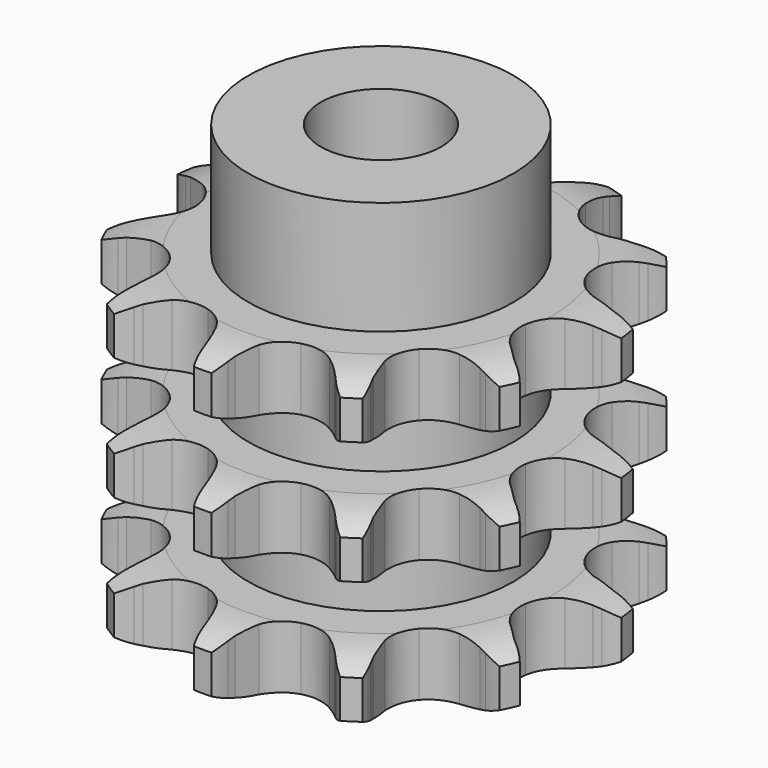
from build123d import *

# Parameters (mm, degrees)
PAD_DEPTH         = 25.6
SKETCH001_R       = 11
PAD001_DEPTH      = 35
SKETCH002_R       = 5
POCKET_DEPTH      = 0.001
POCKET_DEPTH_BACK = 35.001


with BuildPart() as part:
    # Sprocket → Pad (new body)
    with BuildSketch(Plane.XY):
        with BuildLine():
            ThreePointArc((-5.534693, 18.849434), (-4.531257, 17.974923), (-3.774048, 16.880261))
            Line((-3.774048, 16.880261), (-3.501626, 16.357957))
            ThreePointArc((-3.501626, 16.357957), (-3.022974, 15.55414), (-2.456995, 14.809227))
            ThreePointArc((-2.456995, 14.809227), (-1.353005, 13.972494), (0, 13.675355))
            ThreePointArc((0, 13.675355), (1.353005, 13.972494), (2.456995, 14.809227))
            ThreePointArc((2.456995, 14.809227), (3.022974, 15.55414), (3.501626, 16.357957))
            Line((3.501626, 16.357957), (3.774048, 16.880261))
            ThreePointArc((3.774048, 16.880261), (4.531257, 17.974923), (5.534693, 18.849434))
            ThreePointArc((5.534693, 18.849434), (5.906041, 17.57125), (5.951227, 16.240983))
            Line((5.951227, 16.240983), (5.898024, 15.654311))
            ThreePointArc((5.898024, 15.654311), (5.866116, 14.719319), (5.939517, 13.786666))
            ThreePointArc((5.939517, 13.786666), (6.415881, 12.4859), (7.393455, 11.50444))
            ThreePointArc((7.393455, 11.50444), (8.692321, 11.022921), (10.073428, 11.129963))
            Line((10.073428, 11.129963), (11.789535, 11.868067))
            ThreePointArc((11.789535, 11.868067), (12.042722, 12.018656), (12.301089, 12.160175))
            ThreePointArc((12.301089, 12.160175), (13.529913, 12.671685), (14.846854, 12.864872))
            ThreePointArc((14.846854, 12.864872), (14.468213, 11.58883), (13.787029, 10.445308))
            Line((13.787029, 10.445308), (13.425093, 9.980532))
            ThreePointArc((13.425093, 9.980532), (12.892755, 9.211217), (12.450274, 8.386936))
            ThreePointArc((12.450274, 8.386936), (12.147769, 7.035121), (12.43954, 5.680948))
            ThreePointArc((12.43954, 5.680948), (13.271887, 4.573647), (14.491619, 3.917014))
            Line((14.491619, 3.917014), (16.334349, 3.610149))
            ThreePointArc((16.334349, 3.610149), (16.628758, 3.599949), (16.922621, 3.579319))
            ThreePointArc((16.922621, 3.579319), (18.232918, 3.345276), (19.445243, 2.795804))
            ThreePointArc((19.445243, 2.795804), (18.436829, 1.927037), (17.245547, 1.333322))
            Line((17.245547, 1.333322), (16.68979, 1.138005))
            ThreePointArc((16.68979, 1.138005), (15.826036, 0.77862), (15.008157, 0.324413))
            ThreePointArc((15.008157, 0.324413), (14.022827, -0.64926), (13.536159, -1.946206))
            ThreePointArc((13.536159, -1.946206), (13.637722, -3.327727), (14.308823, -4.539559))
            Line((14.308823, -4.539559), (15.693123, -5.793965))
            ThreePointArc((15.693123, -5.793965), (15.935281, -5.961715), (16.171341, -6.137945))
            ThreePointArc((16.171341, -6.137945), (17.147099, -7.043234), (17.869905, -8.160912))
            ThreePointArc((17.869905, -8.160912), (16.551883, -8.346575), (15.228725, -8.201985))
            Line((15.228725, -8.201985), (14.655596, -8.065831))
            ThreePointArc((14.655596, -8.065831), (13.734662, -7.901184), (12.801056, -7.841108))
            ThreePointArc((12.801056, -7.841108), (11.445737, -8.127505), (10.335143, -8.955453))
            ThreePointArc((10.335143, -8.955453), (9.673677, -10.172571), (9.583077, -11.554854))
            Line((9.583077, -11.554854), (10.069441, -13.358536))
            ThreePointArc((10.069441, -13.358536), (10.182465, -13.630578), (10.285774, -13.906455))
            ThreePointArc((10.285774, -13.906455), (10.617198, -15.195567), (10.620998, -16.526596))
            ThreePointArc((10.620998, -16.526596), (9.411831, -15.97021), (8.376891, -15.13322))
            Line((8.376891, -15.13322), (7.968355, -14.708822))
            ThreePointArc((7.968355, -14.708822), (7.28263, -14.072418), (6.52971, -13.517133))
            ThreePointArc((6.52971, -13.517133), (5.234705, -13.025325), (3.852793, -13.121407))
            ThreePointArc((3.852793, -13.121407), (2.638308, -13.787696), (1.814772, -14.901564))
            Line((1.814772, -14.901564), (1.248783, -16.681867))
            ThreePointArc((1.248783, -16.681867), (1.196788, -16.971828), (1.134547, -17.259764))
            ThreePointArc((1.134547, -17.259764), (0.716411, -18.523415), (0, -19.645203))
            ThreePointArc((0, -19.645203), (-0.716411, -18.523415), (-1.134547, -17.259764))
            Line((-1.134547, -17.259764), (-1.248783, -16.681867))
            ThreePointArc((-1.248783, -16.681867), (-1.481585, -15.775758), (-1.814772, -14.901564))
            ThreePointArc((-1.814772, -14.901564), (-2.638308, -13.787696), (-3.852793, -13.121407))
            ThreePointArc((-3.852793, -13.121407), (-5.234705, -13.025325), (-6.52971, -13.517133))
            Line((-6.52971, -13.517133), (-7.968355, -14.708822))
            ThreePointArc((-7.968355, -14.708822), (-8.168861, -14.924643), (-8.376891, -15.13322))
            ThreePointArc((-8.376891, -15.13322), (-9.411831, -15.97021), (-10.620998, -16.526596))
            ThreePointArc((-10.620998, -16.526596), (-10.617198, -15.195567), (-10.285774, -13.906455))
            Line((-10.285774, -13.906455), (-10.069441, -13.358536))
            ThreePointArc((-10.069441, -13.358536), (-9.775408, -12.470407), (-9.583077, -11.554854))
            ThreePointArc((-9.583077, -11.554854), (-9.673677, -10.172571), (-10.335143, -8.955453))
            ThreePointArc((-10.335143, -8.955453), (-11.445737, -8.127505), (-12.801056, -7.841108))
            Line((-12.801056, -7.841108), (-14.655596, -8.065831))
            ThreePointArc((-14.655596, -8.065831), (-14.940954, -8.138989), (-15.228725, -8.201985))
            ThreePointArc((-15.228725, -8.201985), (-16.551883, -8.346575), (-17.869905, -8.160912))
            ThreePointArc((-17.869905, -8.160912), (-17.147099, -7.043234), (-16.171341, -6.137945))
            Line((-16.171341, -6.137945), (-15.693123, -5.793965))
            ThreePointArc((-15.693123, -5.793965), (-14.965607, -5.205789), (-14.308823, -4.539559))
            ThreePointArc((-14.308823, -4.539559), (-13.637722, -3.327727), (-13.536159, -1.946206))
            ThreePointArc((-13.536159, -1.946206), (-14.022827, -0.64926), (-15.008157, 0.324413))
            Line((-15.008157, 0.324413), (-16.68979, 1.138005))
            ThreePointArc((-16.68979, 1.138005), (-16.9694, 1.230736), (-17.245547, 1.333322))
            ThreePointArc((-17.245547, 1.333322), (-18.436829, 1.927037), (-19.445243, 2.795804))
            ThreePointArc((-19.445243, 2.795804), (-18.232918, 3.345276), (-16.922621, 3.579319))
            Line((-16.922621, 3.579319), (-16.334349, 3.610149))
            ThreePointArc((-16.334349, 3.610149), (-15.404332, 3.711629), (-14.491619, 3.917014))
            ThreePointArc((-14.491619, 3.917014), (-13.271887, 4.573647), (-12.43954, 5.680948))
            ThreePointArc((-12.43954, 5.680948), (-12.147769, 7.035121), (-12.450274, 8.386936))
            Line((-12.450274, 8.386936), (-13.425093, 9.980532))
            ThreePointArc((-13.425093, 9.980532), (-13.610181, 10.209712), (-13.787029, 10.445308))
            ThreePointArc((-13.787029, 10.445308), (-14.468213, 11.58883), (-14.846854, 12.864872))
            ThreePointArc((-14.846854, 12.864872), (-13.529913, 12.671685), (-12.301089, 12.160175))
            Line((-12.301089, 12.160175), (-11.789535, 11.868067))
            ThreePointArc((-11.789535, 11.868067), (-10.952291, 11.450632), (-10.073428, 11.129963))
            ThreePointArc((-10.073428, 11.129963), (-8.692321, 11.022921), (-7.393455, 11.50444))
            ThreePointArc((-7.393455, 11.50444), (-6.415881, 12.4859), (-5.939517, 13.786666))
            Line((-5.939517, 13.786666), (-5.898024, 15.654311))
            ThreePointArc((-5.898024, 15.654311), (-5.929826, 15.947175), (-5.951227, 16.240983))
            ThreePointArc((-5.951227, 16.240983), (-5.906041, 17.57125), (-5.534693, 18.849434))
        make_face()
    extrude(amount=PAD_DEPTH)

    # Sketch → Groove (revolve, cut)
    with BuildSketch(Plane.XZ):
        with BuildLine():
            ThreePointArc((14.141101, 0), (16.377169, 0.253206), (18.5, 1))
            Line((18.5, 1), (18.5, 4.2))
            ThreePointArc((18.5, 4.2), (16.377169, 4.946794), (14.141101, 5.2))
            Line((11, 5.2), (14.141101, 5.2))
            Line((11, 5.2), (11, 10.2))
            Line((11, 10.2), (14.141101, 10.2))
            ThreePointArc((14.141101, 10.2), (16.377169, 10.453206), (18.5, 11.2))
            Line((18.5, 14.4), (18.5, 11.2))
            ThreePointArc((18.5, 14.4), (16.377169, 15.146794), (14.141101, 15.4))
            Line((11, 15.4), (14.141101, 15.4))
            Line((11, 20.4), (11, 15.4))
            Line((14.141101, 20.4), (11, 20.4))
            ThreePointArc((14.141101, 20.4), (16.377169, 20.653206), (18.5, 21.4))
            Line((18.5, 21.4), (18.5, 24.6))
            ThreePointArc((18.5, 24.6), (16.377169, 25.346794), (14.141101, 25.6))
            Line((14.141101, 25.6), (28.5, 25.6))
            Line((28.5, 25.6), (28.5, 0))
            Line((14.141101, 0), (28.5, 0))
        make_face()
    revolve(axis=Axis((0, 0, 0), (0, 0, 1)), mode=Mode.SUBTRACT)

    # Sketch001 → Pad001 (join)
    with BuildSketch(Plane.XY):
        Circle(SKETCH001_R)
    extrude(amount=PAD001_DEPTH)

    # Sketch002 → Pocket (cut, two sides)
    with BuildSketch(Plane.XY) as pocket_sk:
        Circle(SKETCH002_R)
    extrude(amount=-POCKET_DEPTH, mode=Mode.SUBTRACT)
    extrude(pocket_sk.sketch, amount=POCKET_DEPTH_BACK, mode=Mode.SUBTRACT)


solid = part.part
